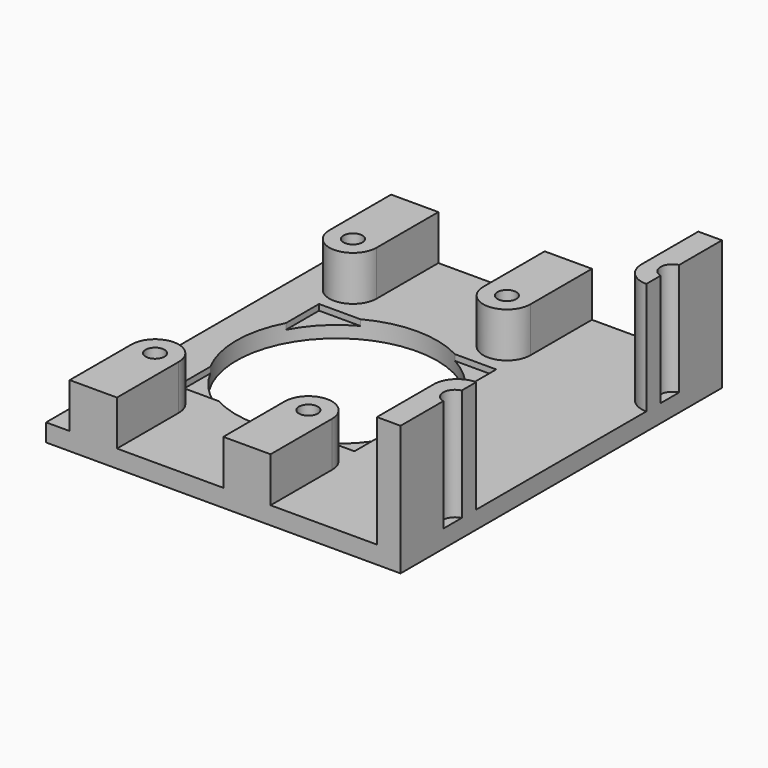
from build123d import *

# Parameters (mm, degrees)
SKETCH023_W      = 12
SKETCH023_H      = 4.8
PAD011_DEPTH     = 30
SKETCH026_W      = 8.3
SKETCH026_H      = 4.2
PAD014_DEPTH     = 30
BOX014_W         = 15
BOX014_H         = 15
BOX014_DEPTH     = 10
SKETCH025_W      = 8.2
SKETCH025_H      = 4.2
PAD013_DEPTH     = 30
SKETCH020_R      = 1
PAD007_DEPTH     = 20
SKETCH021_R      = 1
PAD008_DEPTH     = 11
SKETCH022_R      = 0.8
PAD009_DEPTH     = 5.3
MIRROREDSKETCH_R = 0.8
PAD010_DEPTH     = 5.3
PAD018_DEPTH     = 3
ARRAY007_X_COUNT = 2
ARRAY007_X_PITCH = 70
SKETCH_R         = 8.5
PAD_DEPTH        = 1.5
BOX013_W         = 30
BOX013_H         = 34
BOX013_DEPTH     = 21


with BuildPart() as body006:
    # Sketch023 → Pad011 (new body)
    with BuildSketch(Plane.XZ):
        with Locations((-29.8, 14.9)):
            Rectangle(SKETCH023_W, SKETCH023_H)
    extrude(amount=PAD011_DEPTH)


with BuildPart() as body:
    # Sketch026 → Pad014 (new body)
    with BuildSketch(Plane.XZ):
        with Locations((11.75, 14.6)):
            Rectangle(SKETCH026_W, SKETCH026_H)
    extrude(amount=PAD014_DEPTH)


with BuildPart() as camera_hole_extract_cube:
    # Box014 → Box014 (new body)
    with BuildSketch(Plane(origin=(-7.5, -7.5, 1), x_dir=(1, 0, 0), z_dir=(0, 0, 1))):
        with Locations((7.5, 7.5)):
            Rectangle(BOX014_W, BOX014_H)
    extrude(amount=BOX014_DEPTH)


with BuildPart() as extract_fusion002:
    # Sketch025 → Pad013 (new body)
    with BuildSketch(Plane.XZ):
        with Locations((-0.9, 14.6)):
            Rectangle(SKETCH025_W, SKETCH025_H)
    extrude(amount=PAD013_DEPTH)

    # Fusion010: union Body006, Body, camera hole extract cube
    add(body006.part)
    add(body.part)
    add(camera_hole_extract_cube.part)


with BuildPart() as level3_body:
    # Sketch020 → Pad007 (new body)
    with BuildSketch(Plane.XY):
        with BuildLine():
            Line((-56, 13), (-56, 9))
            Line((-56, 9), (-47.5, 9))
            Line((-47.5, 9), (-47.5, 17))
            Line((-47.5, 17), (26, 17))
            ThreePointArc((29, 14), (28.12132, 16.12132), (26, 17))
            Line((29, 8.86), (29, 14))
            ThreePointArc((29, 8.86), (29.146447, 8.506447), (29.5, 8.36))
            Line((29.5, 8.36), (31.5, 8.36))
            ThreePointArc((33, 6.86), (32.56066, 7.92066), (31.5, 8.36))
            Line((33, -6.86), (33, 6.86))
            ThreePointArc((31.5, -8.36), (32.56066, -7.92066), (33, -6.86))
            Line((29.5, -8.36), (31.5, -8.36))
            ThreePointArc((29.5, -8.36), (29.146447, -8.506447), (29, -8.86))
            Line((29, -8.86), (29, -14))
            ThreePointArc((26, -17), (28.12132, -16.12132), (29, -14))
            Line((-47.5, -17), (26, -17))
            Line((-47.5, -9), (-47.5, -17))
            Line((-56, -9), (-47.5, -9))
            Line((-56, -9), (-56, -13))
            ThreePointArc((-56, -13), (-54.535534, -16.535534), (-51, -18))
            Line((31, -18), (-51, -18))
            ThreePointArc((31, -18), (38.238337, 0), (31, 18))
            Line((-51, 18), (31, 18))
            ThreePointArc((-51, 18), (-54.535534, 16.535534), (-56, 13))
        make_face()
        with Locations((-52, -14.3)):
            Circle(SKETCH020_R, mode=Mode.SUBTRACT)
        with Locations((31.5, 11.4)):
            Circle(SKETCH020_R, mode=Mode.SUBTRACT)
        with Locations((31.5, -11.4)):
            Circle(SKETCH020_R, mode=Mode.SUBTRACT)
        with Locations((-52, 14.3)):
            Circle(SKETCH020_R, mode=Mode.SUBTRACT)
    extrude(amount=PAD007_DEPTH)


with BuildPart() as level2_body:
    # Sketch021 → Pad008 (new body)
    with BuildSketch(Plane.XY):
        with BuildLine():
            Line((-56, 13), (-56, 9))
            Line((-56, 9), (-36.211556, 9))
            ThreePointArc((-36.211556, 9), (-35.354856, 9.354856), (-35, 10.211556))
            Line((-35, 10.211556), (-35, 17))
            Line((-35, 17), (17, 17))
            Line((17, 17), (17, 11))
            ThreePointArc((17, 11), (17.585786, 9.585786), (19, 9))
            Line((19, 9), (31.5, 9))
            ThreePointArc((33, 7.5), (32.56066, 8.56066), (31.5, 9))
            Line((33, -7.5), (33, 7.5))
            ThreePointArc((31.5, -9), (32.56066, -8.56066), (33, -7.5))
            Line((19, -9), (31.5, -9))
            ThreePointArc((19, -9), (17.585786, -9.585786), (17, -11))
            Line((17, -17), (17, -11))
            Line((-35, -17), (17, -17))
            Line((-35, -10.211556), (-35, -17))
            ThreePointArc((-35, -10.211556), (-35.354856, -9.354856), (-36.211556, -9))
            Line((-56, -9), (-36.211556, -9))
            Line((-56, -9), (-56, -13))
            ThreePointArc((-56, -13), (-54.535534, -16.535534), (-51, -18))
            Line((31, -18), (-51, -18))
            ThreePointArc((31, -18), (38.238337, 0), (31, 18))
            Line((-51, 18), (31, 18))
            ThreePointArc((-51, 18), (-54.535534, 16.535534), (-56, 13))
        make_face()
        with Locations((-39.037737, 11.5)):
            Circle(SKETCH021_R, mode=Mode.SUBTRACT)
        with Locations((-39.037737, -11.5)):
            Circle(SKETCH021_R, mode=Mode.SUBTRACT)
        with Locations((19.215181, 11.5)):
            Circle(SKETCH021_R, mode=Mode.SUBTRACT)
        with Locations((19.215181, -11.5)):
            Circle(SKETCH021_R, mode=Mode.SUBTRACT)
    extrude(amount=PAD008_DEPTH)


with BuildPart() as level_1_body:
    # Sketch022 → Pad009 (new body)
    with BuildSketch(Plane.XY):
        with BuildLine():
            Line((-9, 18), (-9, 10.470701))
            ThreePointArc((-9, 10.470701), (-7, 8.470701), (-5, 10.470701))
            Line((-5, 17), (-5, 10.470701))
            Line((-5, 17), (4, 17))
            Line((4, 17), (4, 10.5))
            ThreePointArc((4, 10.5), (6, 8.5), (8, 10.5))
            Line((8, 18), (8, 10.5))
            Line((8, 18), (-9, 18))
        make_face()
        with Locations((-7, 10.470701)):
            Circle(SKETCH022_R, mode=Mode.SUBTRACT)
        with Locations((6, 10.5)):
            Circle(SKETCH022_R, mode=Mode.SUBTRACT)
    extrude(amount=PAD009_DEPTH)


with BuildPart() as level_1_mirror:
    # MirroredSketch → Pad010 (new body)
    with BuildSketch(Plane.XY):
        with BuildLine():
            Line((-9, -18), (-9, -10.470701))
            ThreePointArc((-5, -10.470701), (-7, -8.470701), (-9, -10.470701))
            Line((-5, -17), (-5, -10.470701))
            Line((-5, -17), (4, -17))
            Line((4, -17), (4, -10.5))
            ThreePointArc((8, -10.5), (6, -8.5), (4, -10.5))
            Line((8, -18), (8, -10.5))
            Line((8, -18), (-9, -18))
        make_face()
        with Locations((-7, -10.470701)):
            Circle(MIRROREDSKETCH_R, mode=Mode.SUBTRACT)
        with Locations((6, -10.5)):
            Circle(MIRROREDSKETCH_R, mode=Mode.SUBTRACT)
    extrude(amount=PAD010_DEPTH)


with BuildPart() as attach_body:
    # Sketch030 → Pad018 (new body)
    with BuildSketch(Plane.XY):
        with BuildLine():
            Line((-49.771311, 17), (-49.771311, 32))
            ThreePointArc((-39.771311, 32), (-44.771311, 37), (-49.771311, 32))
            Line((-39.771311, 17), (-39.771311, 32))
            Line((-49.771311, 17), (-39.771311, 17))
        make_face()
        with BuildLine():
            Line((-46.571311, 32), (-46.571311, 22))
            ThreePointArc((-46.571311, 22), (-44.771311, 20.2), (-42.971311, 22))
            Line((-42.971311, 32), (-42.971311, 22))
            ThreePointArc((-42.971311, 32), (-44.771311, 33.8), (-46.571311, 32))
        make_face(mode=Mode.SUBTRACT)
    extrude(amount=PAD018_DEPTH)


with BuildPart() as attachment_array:
    # Part__Mirroring001: instance of attach body
    add(attach_body.part.mirror(Plane(origin=(0, 0, 0), x_dir=(1, 0, 0), z_dir=(0, 1, 0))))

    # Fusion012: union attach body
    add(attach_body.part)

    # Array007 X: attachment array ×2


with BuildPart() as attachment_array_1:
    add(attachment_array.part)
    with Locations(*[(i * ARRAY007_X_PITCH, 0, 0) for i in range(1, ARRAY007_X_COUNT)]):
        add(attachment_array.part)


with BuildPart() as obj1:
    # Sketch → Pad (new body)
    with BuildSketch(Plane.XY):
        with BuildLine():
            Line((-56, 13), (-56, -13))
            ThreePointArc((-56, -13), (-54.535534, -16.535534), (-51, -18))
            Line((31, -18), (-51, -18))
            ThreePointArc((31, -18), (38.238337, 0), (31, 18))
            Line((-51, 18), (31, 18))
            ThreePointArc((-51, 18), (-54.535534, 16.535534), (-56, 13))
        make_face()
        Circle(SKETCH_R, mode=Mode.SUBTRACT)
    extrude(amount=PAD_DEPTH)

    # Fusion009: union level3 body, level2 body, level 1 body, level 1 mirror, attachment array
    add(level3_body.part)
    add(level2_body.part)
    add(level_1_body.part)
    add(level_1_mirror.part)
    add(attachment_array_1.part)

    # Cut002005: cut extract fusion002
    add(extract_fusion002.part, mode=Mode.SUBTRACT)


with BuildPart() as common:
    # Box013 → Box013 (new body)
    with BuildSketch(Plane(origin=(-11, -17, 0), x_dir=(1, 0, 0), z_dir=(0, 0, 1))):
        with Locations((15, 17)):
            Rectangle(BOX013_W, BOX013_H)
    extrude(amount=BOX013_DEPTH)

    # Common: intersect obj1
    add(obj1.part, mode=Mode.INTERSECT)


solid = common.part
